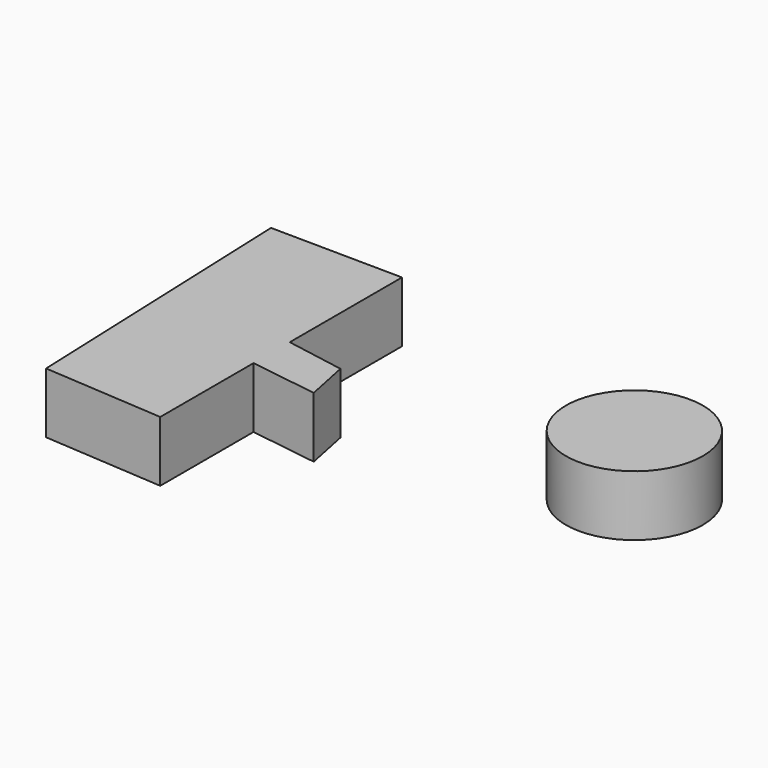
from build123d import *

# Parameters (mm, degrees)
F1_DEPTH = 25.4
F2_R     = 28.695201
F3_DEPTH = 25.4


with BuildPart() as f1:
    # F0 (on Top) → F1 (new body)
    with BuildSketch(Plane.XY):
        Polygon((-88.46049, 58.769505), (-143.856525, 59.40121), (-139.098078, -64.341262), (-88.46049, -67.851849), (-88.46049, -19.001409), (-59.913885, -23.141623), (-63.762777, -4.361406), (-88.46049, 0), align=None)
    extrude(amount=F1_DEPTH)


with BuildPart() as f3:
    # F2 (on Top) → F3 (new body)
    with BuildSketch(Plane.XY):
        with Locations((38.783908, 21.408003)):
            Circle(F2_R)
    extrude(amount=F3_DEPTH)


solid = Compound([f1.part, f3.part])
